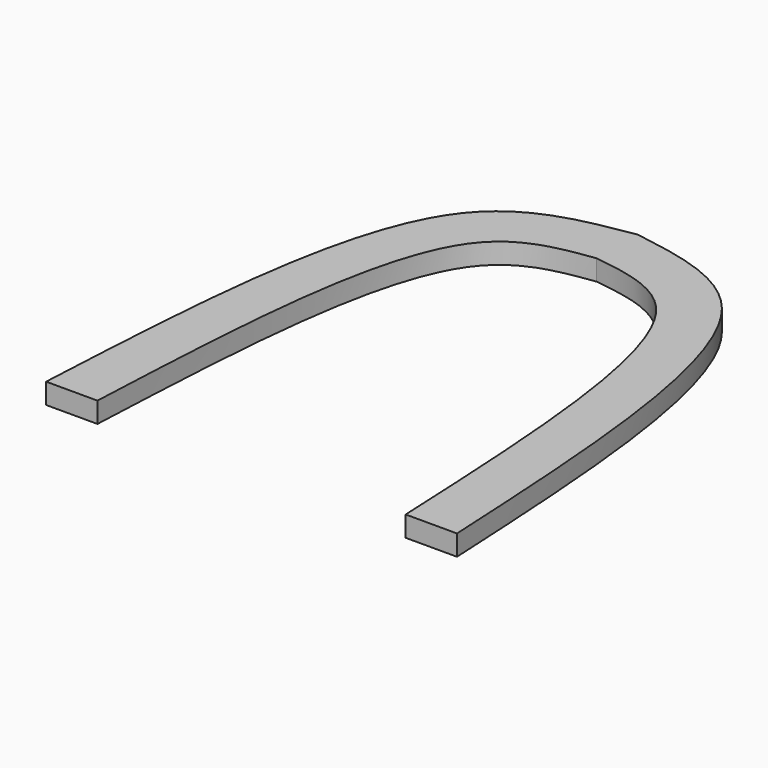
from build123d import *

# Parameters (mm, degrees)
F1_DEPTH = 2


with BuildPart() as f1:
    # F0 (on Top) → F1 (new body)
    with BuildSketch(Plane.XY):
        with BuildLine():
            add(Edge.make_bspline(
                [(0, 42), (-3.3081234958, 41.5378821318), (-13.1881155159, 40.1577278371), (-14.2762237086, 16.0414262488), (-15, 0)],
                knots=[0, 0, 0, 0, 0.3348305838, 1, 1, 1, 1], degree=3))
            Line((0, 42), (0, 47))
            add(Edge.make_bspline(
                [(0, 47), (-4.746546306, 46.2276267285), (-17.7499049498, 44.1116784141), (-19.1261306135, 17.1316519931), (-20, 0)],
                knots=[0, 0, 0, 0, 0.3650246399, 1, 1, 1, 1], degree=3))
            Line((-20, 0), (-15, 0))
        make_face()
        with BuildLine():
            Line((0, 47), (0, 42))
            add(Edge.make_bspline(
                [(0, 42), (3.3081234958, 41.5378821318), (13.1881155159, 40.1577278371), (14.2762237086, 16.0414262488), (15, 0)],
                knots=[0, 0, 0, 0, 0.3348305838, 1, 1, 1, 1], degree=3))
            Line((15, 0), (20, 0))
            add(Edge.make_bspline(
                [(0, 47), (4.746546306, 46.2276267285), (17.7499049498, 44.1116784141), (19.1261306135, 17.1316519931), (20, 0)],
                knots=[0, 0, 0, 0, 0.3650246399, 1, 1, 1, 1], degree=3))
        make_face()
    extrude(amount=F1_DEPTH)


solid = f1.part
